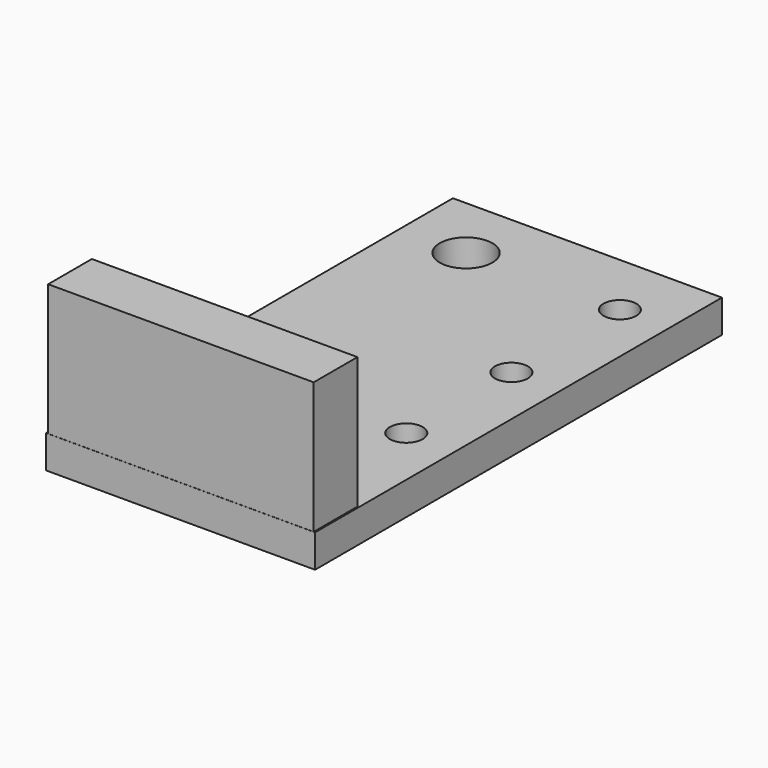
from build123d import *

# Parameters (mm, degrees)
F1_W     = 51.249427
F1_H     = 10.54919
F2_DEPTH = 25.4
F0_W     = 51.912584
F0_H     = 98.145824
F3_DEPTH = 6.35
F4_R     = 5.08
F4_R_2   = 3.175
F5_DEPTH = 27.432


with BuildPart() as f2:
    # F1 (on Top) → F2 (new body)
    with BuildSketch(Plane.XY):
        with Locations((9.770837, -35.216718)):
            Rectangle(F1_W, F1_H)
    extrude(amount=F2_DEPTH)

    # F0 (on Top) → F3 (join)
    with BuildSketch(Plane.XY):
        with Locations((9.720873, 8.55908)):
            Rectangle(F0_W, F0_H)
    extrude(amount=-F3_DEPTH)

    # F4 (on face) → F5 (cut)
    with BuildSketch(Plane.XY):
        with Locations((-3.535419, 44.931992)):
            Circle(F4_R)
        with Locations((26.152165, 44.931992)):
            Circle(F4_R_2)
        with Locations((26.152165, 18.754592)):
            Circle(F4_R_2)
        with Locations((26.152165, -6.611641)):
            Circle(F4_R_2)
    extrude(amount=-F5_DEPTH, mode=Mode.SUBTRACT)


solid = f2.part
